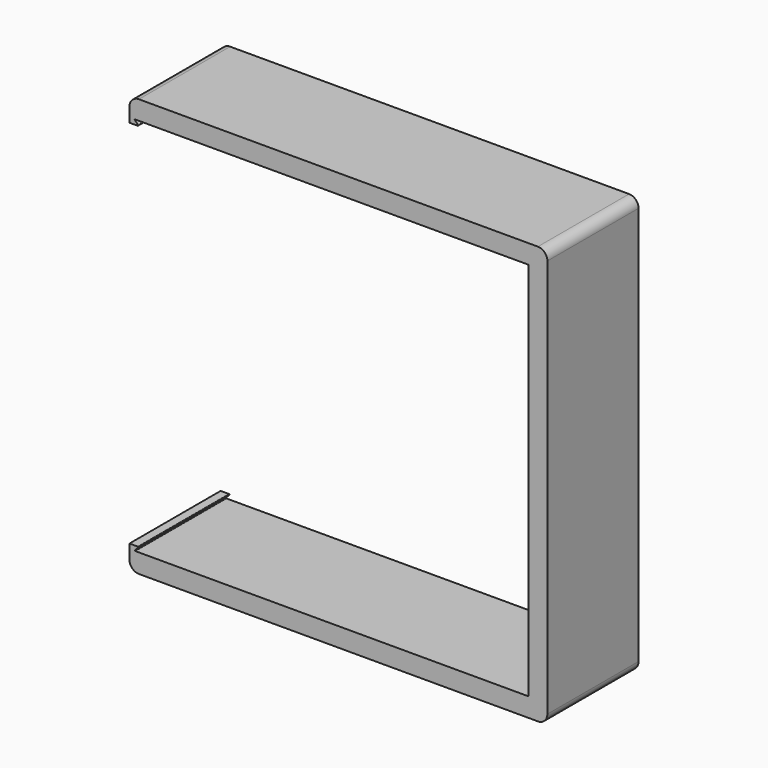
from build123d import *

# Parameters (mm, degrees)
F1_DEPTH = 12


with BuildPart() as f1:
    # F0 (on Front) → F1 (new body)
    with BuildSketch(Plane.XZ):
        with BuildLine():
            Line((-20, 20), (20, 20))
            Line((20, 20), (20, -20))
            Line((20, -20), (-20, -20))
            Line((-20, -20), (-21.379289, -20))
            ThreePointArc((-21.379289, -20), (-21.425483, -19.969134), (-21.414645, -19.914645))
            Line((-21.414645, -19.914645), (-21.085355, -19.585355))
            ThreePointArc((-21.085355, -19.585355), (-21.074517, -19.530866), (-21.120711, -19.5))
            Line((-21.120711, -19.5), (-22, -19.5))
            Line((-22, -19.5), (-22, -21))
            ThreePointArc((-22, -21), (-21.707107, -21.707107), (-21, -22))
            Line((-21, -22), (21, -22))
            ThreePointArc((21, -22), (21.707107, -21.707107), (22, -21))
            Line((22, -21), (22, 21))
            ThreePointArc((22, 21), (21.707107, 21.707107), (21, 22))
            Line((21, 22), (-21, 22))
            ThreePointArc((-21, 22), (-21.707107, 21.707107), (-22, 21))
            Line((-22, 21), (-22, 19.5))
            Line((-22, 19.5), (-21.133234, 19.5))
            ThreePointArc((-21.133234, 19.5), (-21.082247, 19.534068), (-21.094211, 19.594211))
            Line((-21.094211, 19.594211), (-21.5, 20))
            Line((-21.5, 20), (-20, 20))
        make_face()
    extrude(amount=F1_DEPTH)


solid = f1.part
